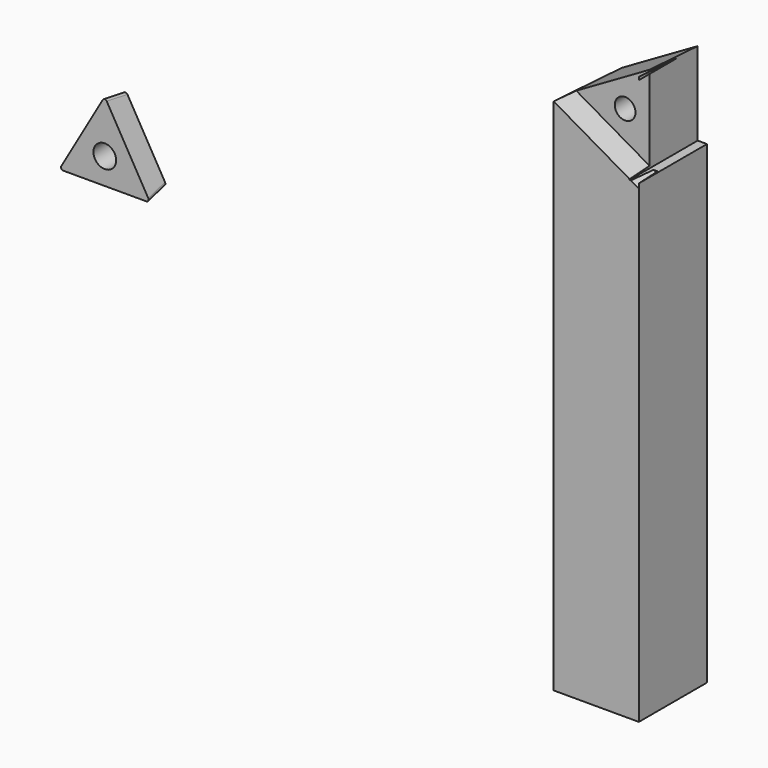
from build123d import *

# Parameters (mm, degrees)
F0_W      = 9.525
F0_H      = 9.525
F1_DEPTH  = 63.5
F3_DEPTH  = 25.4
F3_TAPER  = -3
F4_DEPTH  = 2.794
F4_TAPER  = 3
F6_DEPTH  = 25.4
F7_DEPTH  = 25.4
F9_DEPTH  = 2.8956
F9_TAPER  = 5
F10_R     = 1.27
F11_DEPTH = 25.4
F12_R     = 0.254
F13_R     = 1.1592302207
F14_DEPTH = 25.4
F15_DEPTH = 25.4


with BuildPart() as f1:
    # F0 (on Top) → F1 (new body)
    with BuildSketch(Plane.XY):
        with Locations((-4.7625, 16.6007144532)):
            Rectangle(F0_W, F0_H)
    extrude(amount=F1_DEPTH)

    # F2 (on face) → F3 (cut)
    with BuildSketch(Plane.XZ.offset(-11.8382144532)):
        Polygon((-9.525, 58.000738686), (0, 63.5), (-9.525, 63.5), align=None)
    extrude(amount=-F3_DEPTH, taper=F3_TAPER, mode=Mode.SUBTRACT)

    # F2 (on face) → F4 (cut)
    with BuildSketch(Plane.XZ.offset(-11.8382144532)):
        Polygon((0, 52.5014773719), (0, 63.5), (-9.525, 58.000738686), align=None)
    extrude(amount=-F4_DEPTH, taper=F4_TAPER, mode=Mode.SUBTRACT)

    # F5 (on face) → F6 (cut)
    with BuildSketch(Plane(origin=(0, 21.3632144532, 0), x_dir=(-1, 0, 0), z_dir=(0, 1, 0))):
        with BuildLine():
            Line((-0.2275896803, 53.0175918537), (0, 53.0175918537))
            Line((0, 53.0175918537), (0, 62.9235918537))
            add(Edge.make_bspline(
                [(0, 62.9235918537), (1.0424103197, 62.321755975)],
                knots=[0, 0, 0.1094394036, 0.1094394036], degree=1))
            Line((1.0424103197, 62.321755975), (1.0424103197, 63.1775918537))
            Line((1.0424103197, 63.1775918537), (-0.2275896803, 63.1775918537))
            Line((-0.2275896803, 63.1775918537), (-0.2275896803, 53.0175918537))
        make_face()
    extrude(amount=F6_DEPTH, mode=Mode.SUBTRACT)

    # F5 (on face) → F7 (cut)
    with BuildSketch(Plane(origin=(0, 21.3632144532, 0), x_dir=(-1, 0, 0), z_dir=(0, 1, 0))):
        with BuildLine():
            Line((0, 62.9235918537), (0, 53.0175918537))
            Line((0, 53.0175918537), (1.0424103197, 53.0175918537))
            Line((1.0424103197, 53.0175918537), (1.0424103197, 62.321755975))
            add(Edge.make_bspline(
                [(0, 62.9235918537), (1.0424103197, 62.321755975)],
                knots=[0, 0, 0.1094394036, 0.1094394036], degree=1))
        make_face()
        with BuildLine():
            Line((-0.2275896803, 53.0175918537), (0, 53.0175918537))
            Line((0, 53.0175918537), (0, 62.9235918537))
            add(Edge.make_bspline(
                [(0, 62.9235918537), (1.0424103197, 62.321755975)],
                knots=[0, 0, 0.1094394036, 0.1094394036], degree=1))
            Line((1.0424103197, 62.321755975), (1.0424103197, 63.1775918537))
            Line((1.0424103197, 63.1775918537), (-0.2275896803, 63.1775918537))
            Line((-0.2275896803, 63.1775918537), (-0.2275896803, 53.0175918537))
        make_face()
    extrude(amount=-F7_DEPTH, mode=Mode.SUBTRACT)

    # F13 (on Front) → F14 (cut)
    with BuildSketch(Plane.XZ):
        with Locations((-3.7723219896, 58.000738686)):
            Circle(F13_R)
    extrude(amount=-F14_DEPTH, mode=Mode.SUBTRACT)

    # F5 (on face) → F15 (cut)
    with BuildSketch(Plane(origin=(0, 21.3632144532, 0), x_dir=(-1, 0, 0), z_dir=(0, 1, 0))):
        with BuildLine():
            Line((0, 62.9235918537), (0, 53.0175918537))
            Line((0, 53.0175918537), (1.0424103197, 53.0175918537))
            Line((1.0424103197, 53.0175918537), (1.0424103197, 62.321755975))
            add(Edge.make_bspline(
                [(0, 62.9235918537), (1.0424103197, 62.321755975)],
                knots=[0, 0, 0.1094394036, 0.1094394036], degree=1))
        make_face()
    extrude(amount=-F15_DEPTH, mode=Mode.SUBTRACT)


with BuildPart() as f9:
    # F8 (on Front) → F9 (new body)
    with BuildSketch(Plane.XZ):
        Polygon((-45.1746919079, 41.2280258131), (-50.2546919079, 50.0268439156), (-55.3346919079, 41.2280258131), align=None)
    extrude(amount=-F9_DEPTH, taper=F9_TAPER)

    # F10 (on face) → F11 (cut)
    with BuildSketch(Plane.XZ):
        with Locations((-50.2546919079, 44.1609651806)):
            Circle(F10_R)
    extrude(amount=-F11_DEPTH, mode=Mode.SUBTRACT)

    # F12
    f12_edges = [f9.edges().sort_by_distance(p)[0] for p in [
        (-50.254692, 1.4478, 49.773512),
        (-55.1153, 1.4478, 41.354692),
        (-45.394084, 1.4478, 41.354692),
    ]]
    fillet(f12_edges, radius=F12_R)


solid = Compound([f1.part, f9.part])
